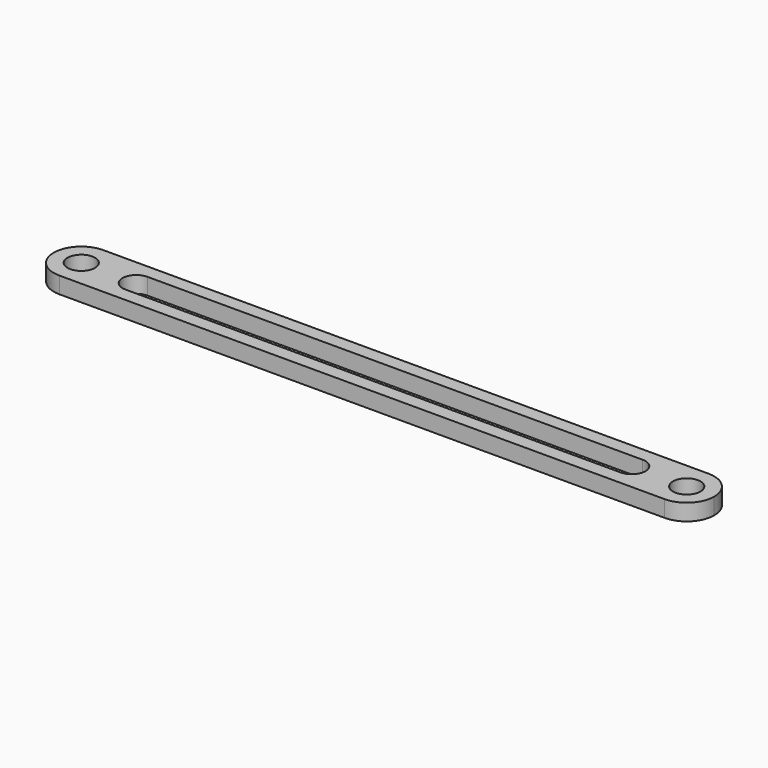
from build123d import *

# Parameters (mm, degrees)
F0_R     = 3.175
F1_DEPTH = 3.81


with BuildPart() as f1:
    # F0 (on Top) → F1 (new body)
    with BuildSketch(Plane.XY):
        with BuildLine():
            Line((74.725954, 3.459382), (-64.974046, 3.459382))
            ThreePointArc((-64.974046, 3.459382), (-60.483918, 1.59951), (-58.624046, -2.890618))
            ThreePointArc((-58.624046, -2.890618), (-60.483918, -7.380746), (-64.974046, -9.240618))
            Line((-64.974046, -9.240618), (74.725954, -9.240618))
            ThreePointArc((74.725954, -9.240618), (68.375954, -2.890618), (74.725954, 3.459382))
        make_face()
        with BuildLine():
            ThreePointArc((-52.274046, -6.065618), (-55.449046, -2.890618), (-52.274046, 0.284382))
            Line((-52.274046, 0.284382), (62.025954, 0.284382))
            ThreePointArc((62.025954, 0.284382), (64.271018, -0.645554), (65.200954, -2.890618))
            ThreePointArc((65.200954, -2.890618), (64.271018, -5.135682), (62.025954, -6.065618))
            Line((62.025954, -6.065618), (-52.274046, -6.065618))
        make_face(mode=Mode.SUBTRACT)
        with BuildLine():
            ThreePointArc((81.075954, -2.890618), (79.216082, 1.59951), (74.725954, 3.459382))
            ThreePointArc((74.725954, 3.459382), (68.375954, -2.890618), (74.725954, -9.240618))
            ThreePointArc((74.725954, -9.240618), (79.216082, -7.380746), (81.075954, -2.890618))
        make_face()
        with Locations((74.725954, -2.890618)):
            Circle(F0_R, mode=Mode.SUBTRACT)
        with BuildLine():
            ThreePointArc((-58.624046, -2.890618), (-60.483918, 1.59951), (-64.974046, 3.459382))
            ThreePointArc((-64.974046, 3.459382), (-71.324046, -2.890618), (-64.974046, -9.240618))
            ThreePointArc((-64.974046, -9.240618), (-60.483918, -7.380746), (-58.624046, -2.890618))
        make_face()
        with Locations((-64.974046, -2.890618)):
            Circle(F0_R, mode=Mode.SUBTRACT)
    extrude(amount=F1_DEPTH)


solid = f1.part
